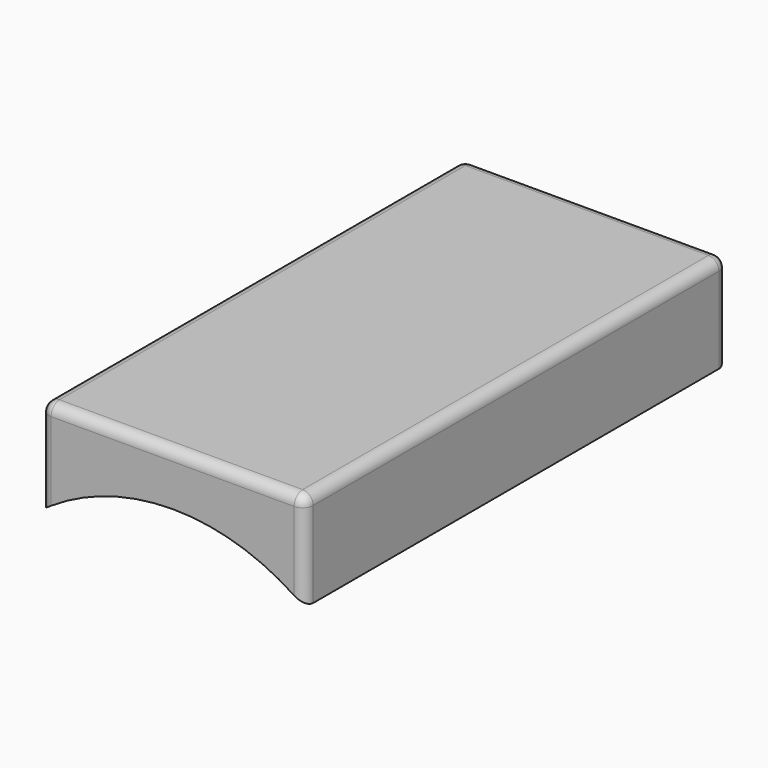
from build123d import *

# Parameters (mm, degrees)
F1_DEPTH = 50
F2_R     = 1


with BuildPart() as f1:
    # F0 (on Front) → F1 (new body)
    with BuildSketch(Plane.XZ):
        with BuildLine():
            Line((12.5, 26), (-12.5, 26))
            Line((-12.5, 26), (-12.5, 16.874537))
            ThreePointArc((-12.5, 16.874537), (0, 21.04193), (12.5, 16.874537))
            Line((12.5, 16.874537), (12.5, 26))
        make_face()
    extrude(amount=F1_DEPTH)

    # F2
    f2_edges = [f1.edges().sort_by_distance(p)[0] for p in [
        (12.5, -25, 26),
        (-12.5, -25, 26),
        (0, 0, 26),
        (0, -50, 26),
        (12.5, -50, 21.437269),
        (-12.5, -50, 21.437269),
        (-12.5, 0, 21.437269),
        (12.5, 0, 21.437269),
    ]]
    fillet(f2_edges, radius=F2_R)


solid = f1.part
